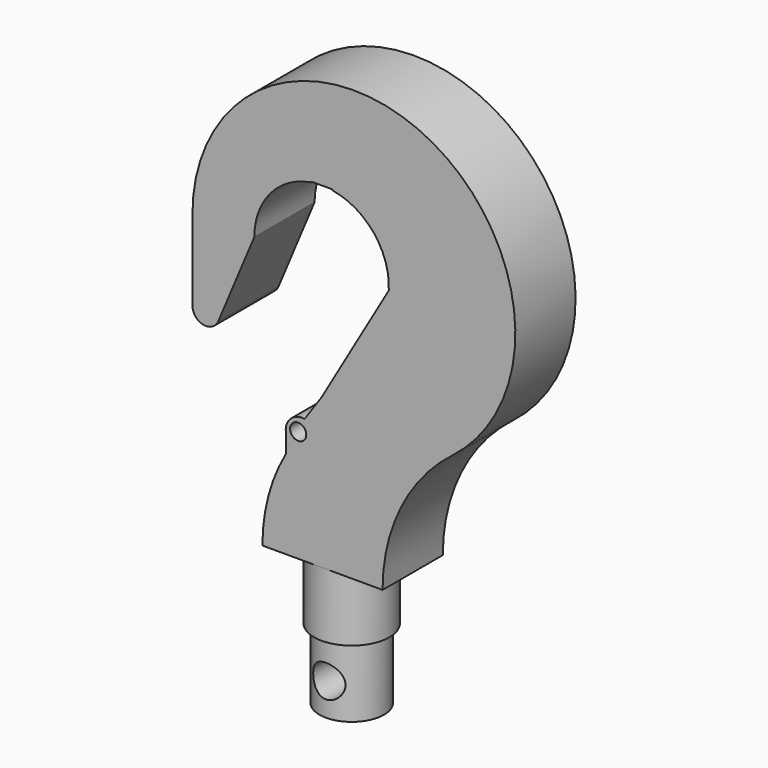
from build123d import *

# Parameters (mm, degrees)
F3_DEPTH = 70
F4_R     = 30
F5_DEPTH = 112
F6_R     = 15
F7_DEPTH = 163


with BuildPart() as f2:
    # F1 (on Front) → F2 (revolve)
    with BuildSketch(Plane.XZ):
        Polygon((-60, -120), (-60, -250), (0, -250), (0, 0), (-70, 0), (-70, -120), align=None)
    revolve(axis=Axis((0, 0, -125), (0, 0, -1)))

    # F0 (on Front) → F3 (join, symmetric)
    with BuildSketch(Plane.XZ):
        with BuildLine():
            ThreePointArc((113.275358, 0), (147.343032, 146.027594), (242.512075, 261.904762))
            ThreePointArc((242.512075, 261.904762), (192.752359, 769.029387), (-240, 500))
            Line((-240, 500), (-125, 500))
            ThreePointArc((-125, 500), (-95.197164, 581.009259), (-20, 623.389627))
            Line((-20, 623.389627), (-20, 624.947867))
            Line((-20, 624.947867), (20, 624.947867))
            Line((20, 624.947867), (20, 623.389627))
            ThreePointArc((20, 623.389627), (97.236318, 578.549974), (124.836727, 493.613169))
            Line((124.836727, 493.613169), (0, 278.411619))
            Line((0, 278.411619), (-31.669397, 232.573897))
            ThreePointArc((-31.669397, 232.573897), (-58.197727, 223.86417), (-66.061109, 197.072774))
            Line((-66.061109, 197.072774), (-66.061109, 164.52672))
            ThreePointArc((-66.061109, 164.52672), (-98.826102, 85.146444), (-110, 0))
            Line((-110, 0), (113.275358, 0))
        make_face()
        with BuildLine():
            Line((-125, 500), (-240, 500))
            Line((-240, 500), (-240, 350))
            ThreePointArc((-240, 350), (-219.930134, 325.490945), (-191.944498, 340.333365))
            Line((-191.944498, 340.333365), (-125, 500))
        make_face()
    extrude(amount=F3_DEPTH, both=True)

    # F4 (on Front) → F5 (cut, symmetric)
    with BuildSketch(Plane.XZ):
        with Locations((0, -190)):
            Circle(F4_R)
    extrude(amount=F5_DEPTH, both=True, mode=Mode.SUBTRACT)

    # F6 (on face) → F7 (cut, symmetric)
    with BuildSketch(Plane.XZ.offset(70)):
        with Locations((-43.483209, 207.776994)):
            Circle(F6_R)
        with Locations((-43.483209, 207.776994)):
            Circle(F6_R)
    extrude(amount=F7_DEPTH, both=True, mode=Mode.SUBTRACT)


solid = f2.part
